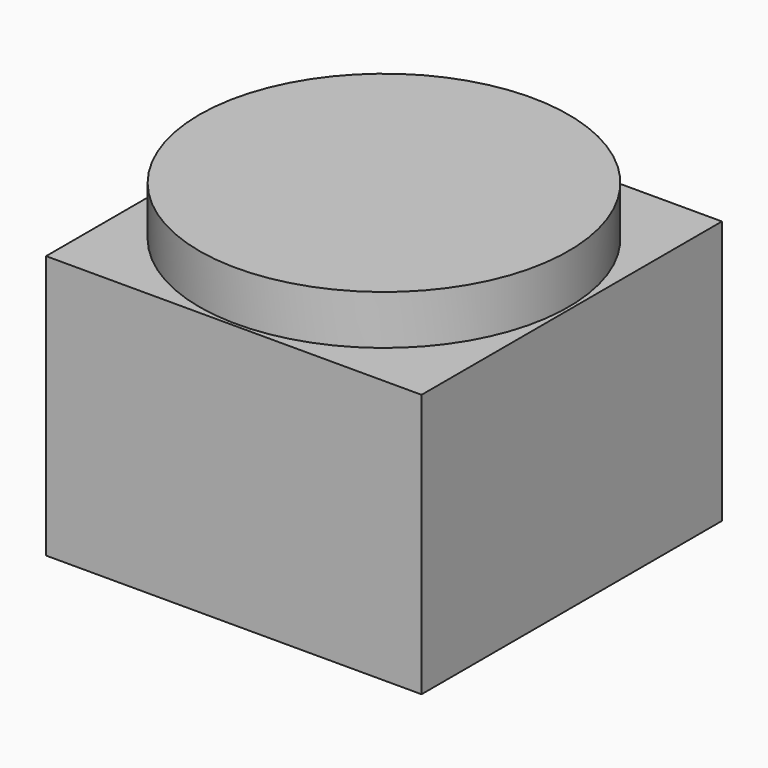
from build123d import *

# Parameters (mm, degrees)
F0_W     = 590
F0_H     = 157.407396
F2_W     = 1200
F2_H     = 1200
F3_DEPTH = 842.592604


with BuildPart() as f1:
    # F0 (on Front) → F1 (revolve)
    with BuildSketch(Plane.XZ):
        Polygon((-600, 842.592604), (-600, 0), (0, 0), (0, 842.592604), (-590, 842.592604), align=None)
        with Locations((-295, 921.296302)):
            Rectangle(F0_W, F0_H)
    revolve(axis=Axis((0, 0, 487.345502), (0, 0, -1)))

    # F2 (on face) → F3 (join, through all)
    with BuildSketch(Plane(origin=(0, 0, 0), x_dir=(1, 0, 0), z_dir=(0, 0, -1))):
        Rectangle(F2_W, F2_H)
    extrude(amount=-F3_DEPTH)


solid = f1.part
